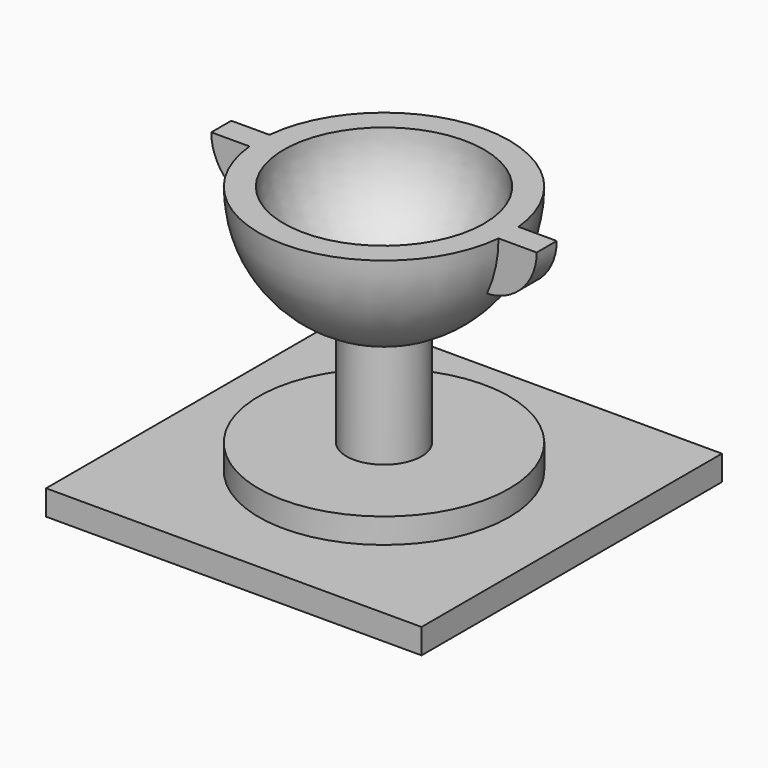
from build123d import *

# Parameters (mm, degrees)
SKETCH_W     = 30
SKETCH_H     = 30
PAD_DEPTH    = 2
PAD001_DEPTH = 1


with BuildPart() as part:
    # Sketch → Pad (new body)
    with BuildSketch(Plane.XY):
        Rectangle(SKETCH_W, SKETCH_H)
    extrude(amount=PAD_DEPTH)

    # Sketch001 → Revolution (revolve)
    with BuildSketch(Plane.XZ):
        with BuildLine():
            Line((0, 2), (10, 2))
            Line((10, 2), (10, 4))
            Line((10, 4), (3, 4))
            Line((3, 4), (3, 12.460608))
            ThreePointArc((3, 12.460608), (8.062258, 16.08392), (10, 22))
            Line((8, 22), (10, 22))
            ThreePointArc((0, 14), (5.656854, 16.343146), (8, 22))
            Line((0, 2), (0, 14))
        make_face()
    revolve(axis=Axis((0, 0, 0), (0, 0, 1)))

    # Sketch002 → Pad001 (join, symmetric)
    with BuildSketch(Plane.XZ):
        with BuildLine():
            ThreePointArc((7.544119, 18), (11.285683, 18.617448), (13, 22))
            Line((9, 22), (13, 22))
            Line((7.544119, 18), (9, 22))
        make_face()
    pad001 = extrude(amount=PAD001_DEPTH, both=True)

    # Mirrored: Pad001 across Sketch002 V_Axis
    add(pad001.mirror(Plane(origin=(0, 0, 0), x_dir=(0, -1, 0), z_dir=(1, 0, 0))))


solid = part.part
